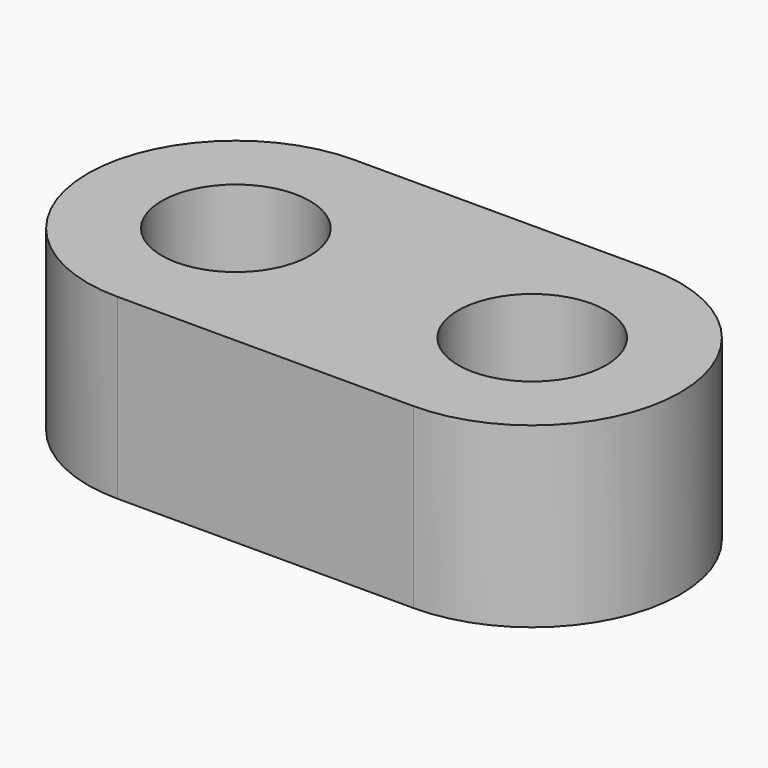
from build123d import *

# Parameters (mm, degrees)
SKETCH_R  = 1.25
PAD_DEPTH = 3


with BuildPart() as part:
    # Sketch → Pad (new body)
    with BuildSketch(Plane.XY):
        with BuildLine():
            ThreePointArc((-2.5, 2.5), (-5, 0), (-2.5, -2.5))
            Line((-2.5, -2.5), (2.5, -2.5))
            ThreePointArc((2.5, -2.5), (5, 0), (2.5, 2.5))
            Line((-2.5, 2.5), (2.5, 2.5))
        make_face()
        with Locations((-2.5, 0)):
            Circle(SKETCH_R, mode=Mode.SUBTRACT)
        with Locations((2.5, 0)):
            Circle(SKETCH_R, mode=Mode.SUBTRACT)
    extrude(amount=PAD_DEPTH)


solid = part.part
